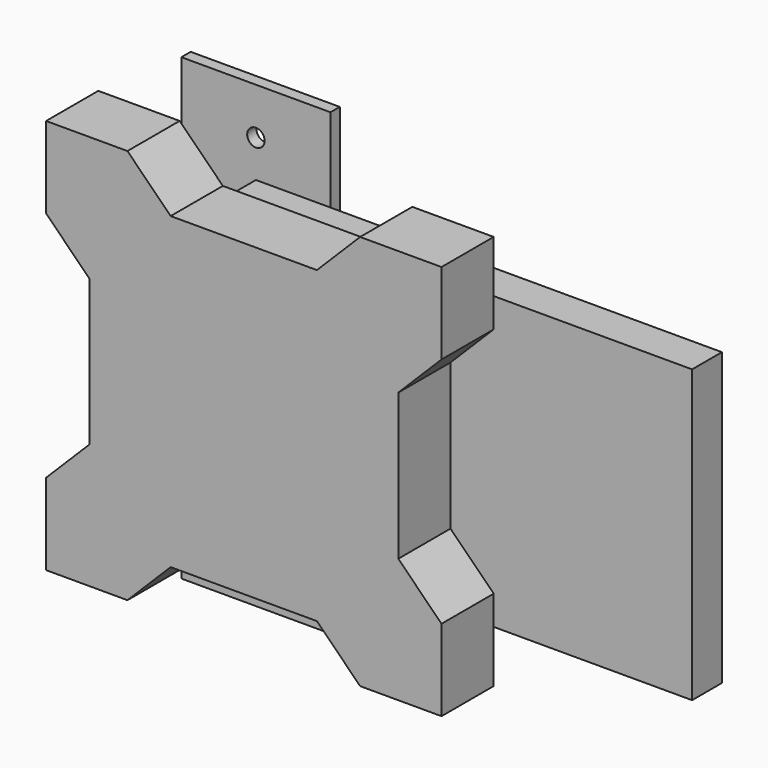
from build123d import *

# Parameters (mm, degrees)
F1_DEPTH = 35.56
F2_W     = 254
F2_H     = 158.75
F3_DEPTH = 20.32
F4_W     = 81.28
F4_H     = 250.19
F5_DEPTH = 6.35
F6_D     = 9.525


with BuildPart() as f1:
    # F0 (on Front) → F1 (new body)
    with BuildSketch(Plane.XZ):
        Polygon((107.763073, 63.407903), (107.763073, 107.763073), (63.407903, 107.763073), (39.86235, 84.21752), (0, 84.21752), (-39.86235, 84.21752), (-63.407903, 107.763073), (-107.763073, 107.763073), (-107.763073, 63.407903), (-84.21752, 39.86235), (-84.21752, 0), (-84.21752, -39.86235), (-107.763073, -63.407903), (-107.763073, -107.763073), (-63.407903, -107.763073), (-39.86235, -84.21752), (0, -84.21752), (39.86235, -84.21752), (63.407903, -107.763073), (107.763073, -107.763073), (107.763073, -63.407903), (84.21752, -39.86235), (84.21752, 0), (84.21752, 39.86235), align=None)
    extrude(amount=F1_DEPTH)

    # F2 (on Front) → F3 (join)
    with BuildSketch(Plane.XZ):
        with Locations((88.9, 0)):
            Rectangle(F2_W, F2_H)
    extrude(amount=-F3_DEPTH)

    # F4 (on face) → F5 (join)
    with BuildSketch(Plane(origin=(0, 20.32, 0), x_dir=(-1, 0, 0), z_dir=(0, 1, 0))):
        with Locations((38.1, 0)):
            Rectangle(F4_W, F4_H)
    extrude(amount=F5_DEPTH)

    # F6 (through all)
    with Locations(Plane(origin=(0, 20.32, 0), x_dir=(-1, 0, 0), z_dir=(0, -1, 0))):
        with Locations((38.1, 99.695), (38.1, -99.695)):
            Hole(F6_D / 2)


solid = f1.part
